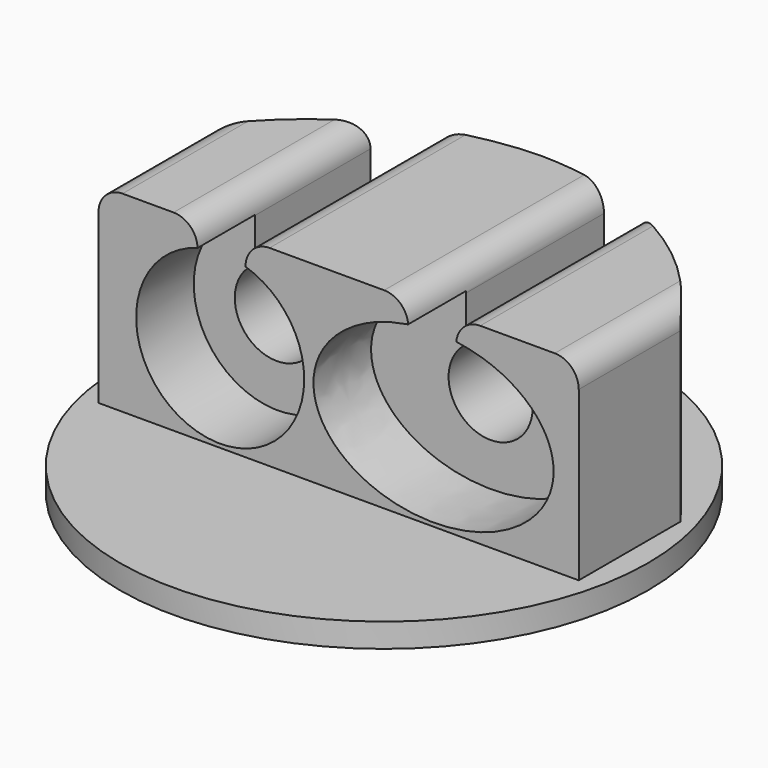
from build123d import *

# Parameters (mm, degrees)
F0_R     = 11
F1_DEPTH = 1
F3_DEPTH = 8
F4_R     = 3.5
F5_DEPTH = 3
F6_R     = 1.75
F7_DEPTH = 25
F8_W     = 2
F8_H     = 1.3584850393
F8_H_2   = 0.8566204496
F9_DEPTH = 25
F10_R    = 1


with BuildPart() as f1:
    # F0 (on Top) → F1 (new body)
    with BuildSketch(Plane.XY):
        Circle(F0_R)
    extrude(amount=F1_DEPTH)

    # F2 (on face) → F3 (join)
    with BuildSketch(Plane.XY.offset(1)):
        with BuildLine():
            Line((-10, -2.3613233584), (10, -2.3613233584))
            Line((10, -2.3613233584), (10, 2.9327942886))
            ThreePointArc((10, 2.9327942886), (5.6326397358, 6.7748392798), (0, 8.2269119357))
            ThreePointArc((0, 8.2269119357), (-5.6326397358, 6.7748392798), (-10, 2.9327942886))
            Line((-10, 2.9327942886), (-10, -2.3613233584))
        make_face()
    extrude(amount=F3_DEPTH)

    # F4 (on face) → F5 (cut)
    with BuildSketch(Plane.XZ.offset(2.3613233584)):
        with BuildLine():
            add(Edge.make_bspline(
                [(8.9514442906, 4.652726464), (8.9514442906, 10.7149042905), (1.4514442906, 7.6838153772), (-6.0485557094, 4.652726464), (1.4514442906, 1.6216375507), (8.9514442906, -1.4094513625), (8.9514442906, 4.652726464)],
                knots=[0, 0, 0, 2.0943951024, 2.0943951024, 4.1887902048, 4.1887902048, 6.2831853072, 6.2831853072, 6.2831853072], degree=2, weights=[1, 0.5, 1, 0.5, 1, 0.5, 1]))
        make_face()
        with Locations((-4.9335886724, 4.652726464)):
            Circle(F4_R)
    extrude(amount=-F5_DEPTH, mode=Mode.SUBTRACT)

    # F6 (on face) → F7 (cut)
    with BuildSketch(Plane.XZ.offset(2.3613233584)):
        with Locations((-4.9761696719, 4.699612502)):
            Circle(F6_R)
        with Locations((3.9290110581, 4.699612502)):
            Circle(F6_R)
    extrude(amount=-F7_DEPTH, mode=Mode.SUBTRACT)

    # F8 (on face) → F9 (cut)
    with BuildSketch(Plane.XZ.offset(2.3613233584)):
        with Locations((-4.8761131, 9.6792425197)):
            Rectangle(F8_W, F8_H)
        with BuildLine():
            Line((-3.8761131, 9), (-5.8761131, 9))
            Line((-5.8761131, 9), (-5.8761131, 8.0234307974))
            ThreePointArc((-5.8761131, 8.0234307974), (-4.8736122222, 8.1522125442), (-3.8761131, 7.989153507))
            Line((-3.8761131, 7.989153507), (-3.8761131, 9))
        make_face()
        with BuildLine():
            ThreePointArc((-3.8761131, 7.989153507), (-4.8736122222, 8.1522125442), (-5.8761131, 8.0234307974))
            Line((-5.8761131, 8.0234307974), (-5.8761131, 5.3584850393))
            Line((-5.8761131, 5.3584850393), (-3.8761131, 5.3584850393))
            Line((-3.8761131, 5.3584850393), (-3.8761131, 7.989153507))
        make_face()
        with BuildLine():
            add(Edge.make_bspline(
                [(4.8966631293, 8.0896167823), (3.8943802836, 8.2246849702), (2.8966631293, 8.0739607418)],
                knots=[1.352399947, 1.352399947, 1.352399947, 1.7466916301, 1.7466916301, 1.7466916301], degree=2, weights=[0.7712353122, 0.7986692612, 0.8615451927]))
            Line((2.8966631293, 8.0739607418), (2.8966631293, 4.8566204496))
            Line((2.8966631293, 4.8566204496), (4.8966631293, 4.8566204496))
            Line((4.8966631293, 4.8566204496), (4.8966631293, 8.0896167823))
        make_face()
        with BuildLine():
            Line((4.8966631293, 9), (2.8966631293, 9))
            Line((2.8966631293, 9), (2.8966631293, 8.0739607418))
            add(Edge.make_bspline(
                [(4.8966631293, 8.0896167823), (3.8943802836, 8.2246849702), (2.8966631293, 8.0739607418)],
                knots=[1.352399947, 1.352399947, 1.352399947, 1.7466916301, 1.7466916301, 1.7466916301], degree=2, weights=[0.7712353122, 0.7986692612, 0.8615451927]))
            Line((4.8966631293, 8.0896167823), (4.8966631293, 9))
        make_face()
        with Locations((3.8966631293, 9.4283102248)):
            Rectangle(F8_W, F8_H_2)
    extrude(amount=-F9_DEPTH, mode=Mode.SUBTRACT)

    # F10
    f10_edges = [f1.edges().sort_by_distance(p)[0] for p in [
        (-10, 0.285735, 9),
        (-5.876113, 2.140573, 9),
        (-3.876113, 2.588768, 9),
        (2.896663, 2.736384, 9),
        (4.896663, 2.38641, 9),
        (10, 0.285735, 9),
    ]]
    fillet(f10_edges, radius=F10_R)


solid = f1.part
